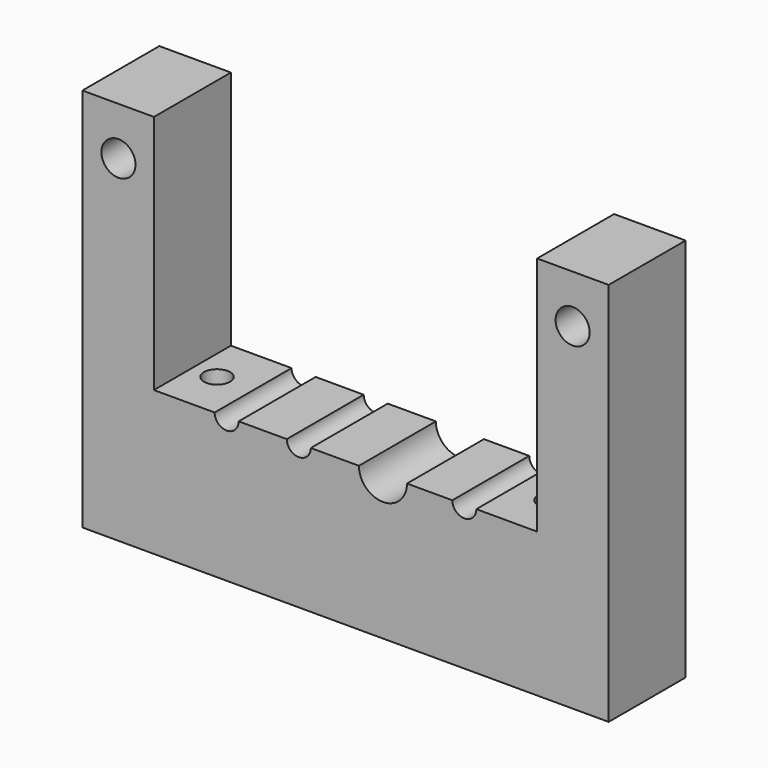
from build123d import *

# Parameters (mm, degrees)
F1_DEPTH = 12.7
F3_D     = 3.175
F4_D     = 6.35
F6_D     = 4.4958
F8_D     = 3.4544
F10_D    = 3.4544


with BuildPart() as f1:
    # F0 (on Front) → F1 (new body)
    with BuildSketch(Plane.XZ):
        Polygon((-37.8843045536, 62.8095008674), (-47.3331045536, 62.8095008674), (-47.3331045536, 12.0095008674), (22.1612954464, 12.0095008674), (22.1612954464, 62.8095008674), (12.7124954464, 62.8095008674), (12.7124954464, 31.0595008674), (-37.8843045536, 31.0595008674), align=None)
    extrude(amount=F1_DEPTH)

    # F3 (through all)
    with Locations(Plane.XZ.offset(12.7)):
        with Locations((-28.2831045536, 31.0595008674), (-18.7581045536, 31.0595008674), (3.0985954464, 31.0595008674)):
            Hole(F3_D / 2)

    # F4 (through all)
    with Locations(Plane.XZ.offset(12.7)):
        with Locations((-7.6456045536, 31.0595008674)):
            Hole(F4_D / 2)

    # F6 (through all)
    with Locations(Plane.XZ.offset(12.7)):
        with Locations((-42.5706045536, 56.4595008674), (17.3987954464, 56.4595008674)):
            Hole(F6_D / 2)

    # F8 (through all)
    with Locations(Plane.XY.offset(31.0595008674)):
        with Locations((-34.6331045536, -6.35)):
            Hole(F8_D / 2)

    # F10 (through all)
    with Locations(Plane.XY.offset(31.0595008674)):
        with Locations((9.4612954464, -6.35)):
            Hole(F10_D / 2)


solid = f1.part
